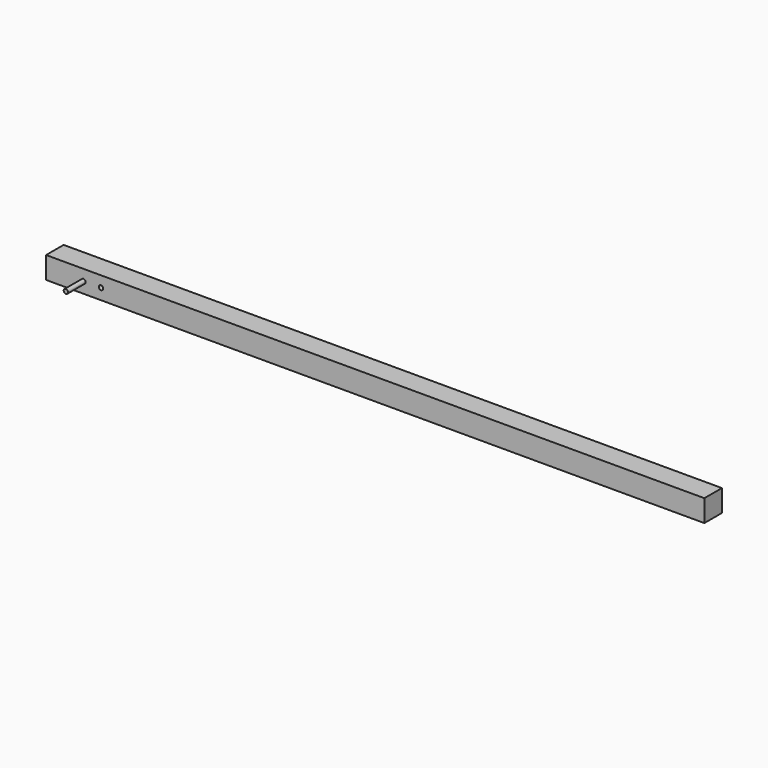
from build123d import *

# Parameters (mm, degrees)
F0_W     = 3000
F0_H     = 100
F1_DEPTH = 100
F2_D     = 20
F3_R     = 10
F4_DEPTH = 200


with BuildPart() as f1:
    # F0 (on Front) → F1 (new body)
    with BuildSketch(Plane.XZ):
        with Locations((1329.66511, 0)):
            Rectangle(F0_W, F0_H)
    extrude(amount=F1_DEPTH)

    # F2 (through all)
    with Locations(Plane(origin=(0, 0, 0), x_dir=(1, 0, 0), z_dir=(0, 1, 0))):
        with Locations((79.66511, 0)):
            Hole(F2_D / 2)


with BuildPart() as f4:
    # F3 (on Front) → F4 (new body)
    with BuildSketch(Plane.XZ):
        Circle(F3_R)
    extrude(amount=F4_DEPTH)


solid = Compound([f1.part, f4.part])
